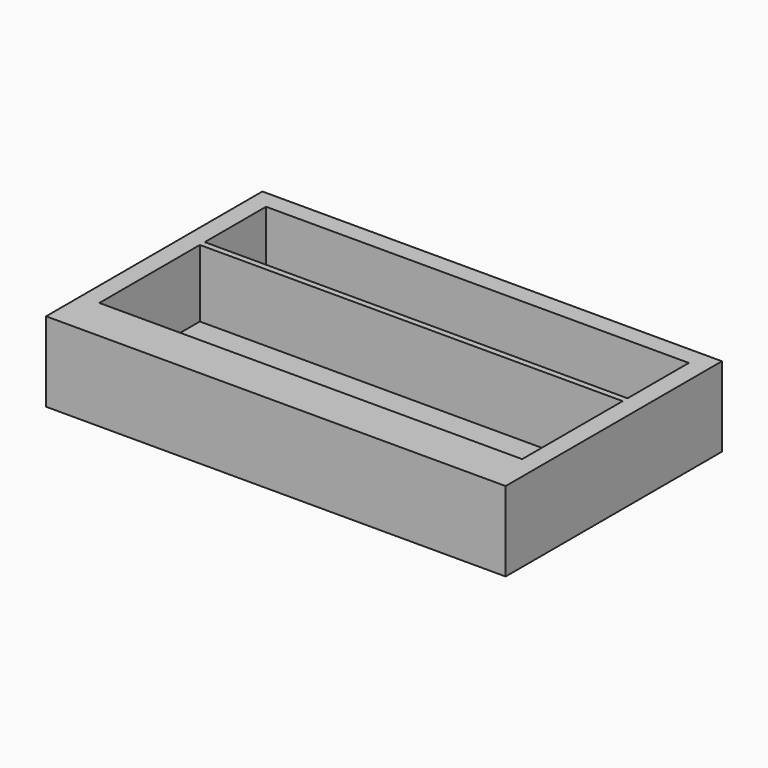
from build123d import *

# Parameters (mm, degrees)
F0_W     = 190.5
F0_H     = 101.6
F0_W_2   = 175.26
F0_H_2   = 2.54
F1_DEPTH = 33.02
F0_H_3   = 31.75
F0_H_4   = 52.07
F2_DEPTH = 5.08
F3_W     = 190.5
F3_H     = 10.465697
F4_DEPTH = 33.02


with BuildPart() as f1:
    # F0 (on Top) → F1 (new body)
    with BuildSketch(Plane.XY):
        with Locations((0, 50.8)):
            Rectangle(F0_W, F0_H)
        Polygon((87.63, 7.62), (-87.63, 7.62), (-87.63, 59.69), (-87.63, 62.23), (-87.63, 93.98), (87.63, 93.98), (87.63, 62.23), (87.63, 59.69), align=None, mode=Mode.SUBTRACT)
        with Locations((0, 60.96)):
            Rectangle(F0_W_2, F0_H_2)
    extrude(amount=F1_DEPTH)

    # F0 (on Top) → F2 (join)
    with BuildSketch(Plane.XY):
        with Locations((0, 78.105)):
            Rectangle(F0_W_2, F0_H_3)
        with Locations((0, 33.655)):
            Rectangle(F0_W_2, F0_H_4)
    extrude(amount=F2_DEPTH)

    # F3 (on face) → F4 (join)
    with BuildSketch(Plane.XY.offset(33.02)):
        with Locations((0, -5.232848)):
            Rectangle(F3_W, F3_H)
    extrude(amount=-F4_DEPTH)


solid = f1.part
